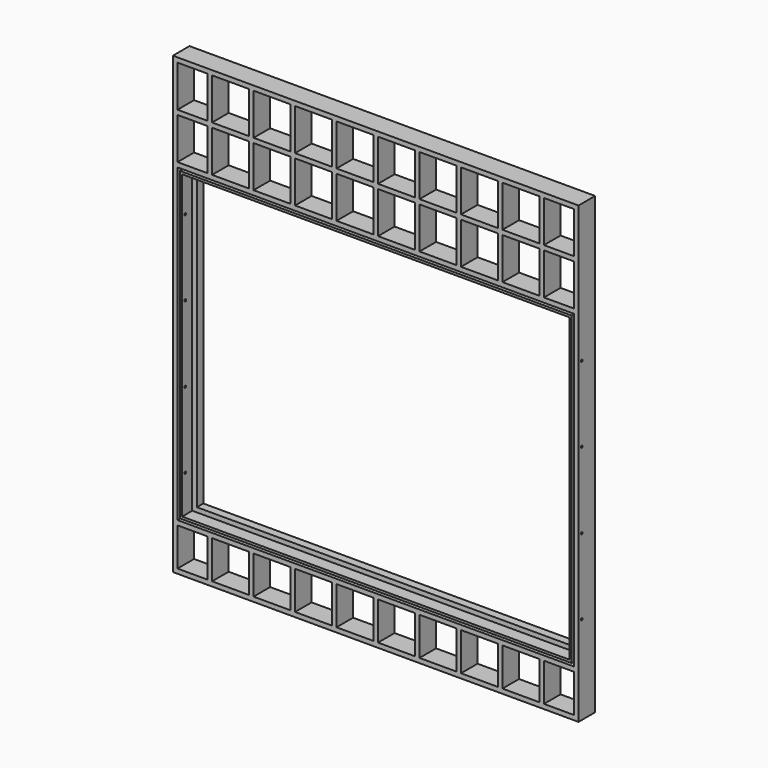
from build123d import *

# Parameters (mm, degrees)
F0_W           = 6.3500062943
F0_H           = 57.1500028491
F0_H_2         = 6.35
F0_W_2         = 41.2749993086
F0_W_3         = 50.8
F0_W_4         = 6.3499943972
F0_W_5         = 6.35
F0_W_6         = 6.3500004351
F0_W_7         = 41.2749995649
F0_H_3         = 52.3875
F0_W_8         = 6.3499957323
F1_DEPTH       = 28.575
F5_W           = 546.1
F5_H           = 3.175
F6_DEPTH       = 12.7
F2_W           = 3.175
F2_H           = 427.83125
F7_DEPTH       = 12.7
F3_W           = 546.1
F3_H           = 3.175
F8_DEPTH       = 12.7
F4_W           = 3.175
F4_H           = 427.83125
F9_DEPTH       = 12.7
F10_W          = 527.05
F10_H          = 408.78125
F10_W_2        = 520.7
F10_H_2        = 402.43125
F11_DEPTH      = 7.9375
F12_W          = 6.35
F12_H          = 6.35
F13_DEPTH      = 25.4
F14_W          = 3.175
F14_H          = 3.175
F15_DEPTH      = 3.175
F14_W_2        = 533.4
F14_H_2        = 415.13125
F16_DEPTH      = 17.4625
F17_DEPTH      = 3.175
F18_R          = 1.5875
F19_DEPTH      = 12.701
F19_DEPTH_BACK = 762
F20_DEPTH      = 25.4


with BuildPart() as f1:
    # F0 (on Front) → F1 (new body)
    with BuildSketch(Plane.XZ):
        Polygon((-279.4, 313.134375), (-279.4, -313.134375), (279.4, -313.134375), (279.4, 313.134375), (231.7750004351, 313.134375), align=None)
        Polygon((225.4250004351, 306.784375), (231.7750004351, 306.784375), (273.05, 306.784375), (273.05, 249.6343721509), (273.05, 243.2843721509), (273.05, 186.1343693018), (273.05, 179.784375), (273.05, -248.046875), (273.05, -254.396875), (273.05, -306.784375), (231.7749950409, -306.784375), (225.4249950409, -306.784375), (174.6249950409, -306.784375), (168.2749950409, -306.784375), (117.4749950409, -306.784375), (111.1249950409, -306.784375), (60.3249950409, -306.784375), (53.9749950409, -306.784375), (3.1749950409, -306.784375), (-3.1750049591, -306.784375), (-53.9750049591, -306.784375), (-60.3250049591, -306.784375), (-111.1250049591, -306.784375), (-117.4750049591, -306.784375), (-168.2750049591, -306.784375), (-174.6250049591, -306.784375), (-225.4250049591, -306.784375), (-231.7750006914, -306.784375), (-273.05, -306.784375), (-273.05, -254.396875), (-273.05, -248.046875), (-273.05, 179.784375), (-273.05, 186.1343693018), (-273.05, 243.2843721509), (-273.05, 249.6343721509), (-273.05, 306.784375), (-231.7750006914, 306.784375), (-225.4249943972, 306.784375), (-174.6249943972, 306.784375), (-168.275, 306.784375), (-117.475, 306.784375), (-111.125, 306.784375), (-60.325, 306.784375), (-53.975, 306.784375), (-3.175, 306.784375), (3.175, 306.784375), (53.975, 306.784375), (60.3250004351, 306.784375), (111.1250004351, 306.784375), (117.4750004351, 306.784375), (168.2750004351, 306.784375), (174.6250004351, 306.784375), align=None, mode=Mode.SUBTRACT)
        with Locations((-228.5999975443, 278.2093735754)):
            Rectangle(F0_W, F0_H)
        with Locations((-228.5999975443, 246.4593721509)):
            Rectangle(F0_W, F0_H_2)
        with Locations((-252.4125003457, 246.4593721509)):
            Rectangle(F0_W_2, F0_H_2)
        with Locations((-228.5999975443, 214.7093707263)):
            Rectangle(F0_W, F0_H)
        with Locations((-200.0249943972, 246.4593721509)):
            Rectangle(F0_W_3, F0_H_2)
        with Locations((-171.4499971986, 246.4593721509)):
            Rectangle(F0_W_4, F0_H_2)
        with Locations((-171.4499971986, 278.2093735754)):
            Rectangle(F0_W_4, F0_H)
        with Locations((-171.4499971986, 214.7093707263)):
            Rectangle(F0_W_4, F0_H)
        with Locations((-142.875, 246.4593721509)):
            Rectangle(F0_W_3, F0_H_2)
        with Locations((-114.3, 214.7093707263)):
            Rectangle(F0_W_5, F0_H)
        with Locations((-114.3, 246.4593721509)):
            Rectangle(F0_W_5, F0_H_2)
        with Locations((-114.3, 278.2093735754)):
            Rectangle(F0_W_5, F0_H)
        with Locations((-85.725, 246.4593721509)):
            Rectangle(F0_W_3, F0_H_2)
        with Locations((-57.15, 246.4593721509)):
            Rectangle(F0_W_5, F0_H_2)
        with Locations((-57.15, 278.2093735754)):
            Rectangle(F0_W_5, F0_H)
        with Locations((-57.15, 214.7093707263)):
            Rectangle(F0_W_5, F0_H)
        Polygon((273.05, 186.1343693018), (231.7750004351, 186.1343693018), (225.4250004351, 186.1343693018), (174.6250004351, 186.1343693018), (168.2750004351, 186.1343693018), (117.4750004351, 186.1343693018), (111.1250004351, 186.1343693018), (60.3250004351, 186.1343693018), (53.975, 186.1343693018), (3.175, 186.1343693018), (-3.175, 186.1343693018), (-53.975, 186.1343693018), (-60.325, 186.1343693018), (-111.125, 186.1343693018), (-117.475, 186.1343693018), (-168.275, 186.1343693018), (-174.6249943972, 186.1343693018), (-225.4249943972, 186.1343693018), (-231.7750006914, 186.1343693018), (-273.05, 186.1343693018), (-273.05, 179.784375), (273.05, 179.784375), align=None)
        with Locations((0, 214.7093707263)):
            Rectangle(F0_W_5, F0_H)
        with Locations((0, 246.4593721509)):
            Rectangle(F0_W_5, F0_H_2)
        with Locations((-28.575, 246.4593721509)):
            Rectangle(F0_W_3, F0_H_2)
        with Locations((0, 278.2093735754)):
            Rectangle(F0_W_5, F0_H)
        with Locations((28.575, 246.4593721509)):
            Rectangle(F0_W_3, F0_H_2)
        with Locations((57.1500002176, 246.4593721509)):
            Rectangle(F0_W_6, F0_H_2)
        with Locations((57.1500002176, 278.2093735754)):
            Rectangle(F0_W_6, F0_H)
        with Locations((57.1500002176, 214.7093707263)):
            Rectangle(F0_W_6, F0_H)
        with Locations((85.7250004351, 246.4593721509)):
            Rectangle(F0_W_3, F0_H_2)
        with Locations((114.3000004351, 246.4593721509)):
            Rectangle(F0_W_5, F0_H_2)
        with Locations((114.3000004351, 214.7093707263)):
            Rectangle(F0_W_5, F0_H)
        with Locations((114.3000004351, 278.2093735754)):
            Rectangle(F0_W_5, F0_H)
        with Locations((142.8750004351, 246.4593721509)):
            Rectangle(F0_W_3, F0_H_2)
        with Locations((171.4500004351, 278.2093735754)):
            Rectangle(F0_W_5, F0_H)
        with Locations((171.4500004351, 246.4593721509)):
            Rectangle(F0_W_5, F0_H_2)
        with Locations((171.4500004351, 214.7093707263)):
            Rectangle(F0_W_5, F0_H)
        with Locations((200.0250004351, 246.4593721509)):
            Rectangle(F0_W_3, F0_H_2)
        with Locations((228.6000004351, 214.7093707263)):
            Rectangle(F0_W_5, F0_H)
        with Locations((228.6000004351, 246.4593721509)):
            Rectangle(F0_W_5, F0_H_2)
        with Locations((228.6000004351, 278.2093735754)):
            Rectangle(F0_W_5, F0_H)
        with Locations((252.4125002176, 246.4593721509)):
            Rectangle(F0_W_7, F0_H_2)
        Polygon((273.05, -254.396875), (273.05, -248.046875), (-231.7750006914, -248.046875), (-231.7750006914, -254.396875), (-225.4250049591, -254.396875), (-174.6250049591, -254.396875), (-168.2750049591, -254.396875), (-117.4750049591, -254.396875), (-111.1250049591, -254.396875), (-60.3250049591, -254.396875), (-53.9750049591, -254.396875), (-3.1750049591, -254.396875), (3.1749950409, -254.396875), (53.9749950409, -254.396875), (60.3249950409, -254.396875), (111.1249950409, -254.396875), (117.4749950409, -254.396875), (168.2749950409, -254.396875), (174.6249950409, -254.396875), (225.4249950409, -254.396875), (231.7749950409, -254.396875), align=None)
        with Locations((-57.1500049591, -280.590625)):
            Rectangle(F0_W_5, F0_H_3)
        with Locations((-114.3000049591, -280.590625)):
            Rectangle(F0_W_5, F0_H_3)
        with Locations((-171.4500049591, -280.590625)):
            Rectangle(F0_W_5, F0_H_3)
        with Locations((-228.6000028253, -280.590625)):
            Rectangle(F0_W_8, F0_H_3)
        with Locations((-4.9591e-06, -280.590625)):
            Rectangle(F0_W_5, F0_H_3)
        with Locations((57.1499950409, -280.590625)):
            Rectangle(F0_W_5, F0_H_3)
        with Locations((171.4499950409, -280.590625)):
            Rectangle(F0_W_5, F0_H_3)
        with Locations((-252.4125003457, -251.221875)):
            Rectangle(F0_W_2, F0_H_2)
        with Locations((114.2999950409, -280.590625)):
            Rectangle(F0_W_5, F0_H_3)
        with Locations((228.5999950409, -280.590625)):
            Rectangle(F0_W_5, F0_H_3)
    extrude(amount=F1_DEPTH)

    # F5 (on face) → F6 (join)
    with BuildSketch(Plane(origin=(0, 0, 179.784375), x_dir=(1, 0, 0), z_dir=(0, 0, -1))):
        with Locations((0, 9.525)):
            Rectangle(F5_W, F5_H)
    extrude(amount=F6_DEPTH)

    # F2 (on face) → F7 (join)
    with BuildSketch(Plane.YZ.offset(-273.05)):
        with Locations((-9.525, -34.13125)):
            Rectangle(F2_W, F2_H)
    extrude(amount=F7_DEPTH)

    # F3 (on face) → F8 (join)
    with BuildSketch(Plane.XY.offset(-248.046875)):
        with Locations((0, -9.525)):
            Rectangle(F3_W, F3_H)
    extrude(amount=F8_DEPTH)

    # F4 (on face) → F9 (join)
    with BuildSketch(Plane(origin=(273.05, 0, 0), x_dir=(0, -1, 0), z_dir=(-1, 0, 0))):
        with Locations((9.525, -34.13125)):
            Rectangle(F4_W, F4_H)
    extrude(amount=F9_DEPTH)

    # F10 (on face) → F11 (join)
    with BuildSketch(Plane(origin=(0, -7.9375, 0), x_dir=(-1, 0, 0), z_dir=(0, 1, 0))):
        with Locations((0, -34.13125)):
            Rectangle(F10_W, F10_H)
        with Locations((0, -34.13125)):
            Rectangle(F10_W_2, F10_H_2, mode=Mode.SUBTRACT)
    extrude(amount=F11_DEPTH)

    # F12 (on face) → F13 (cut)
    with BuildSketch(Plane.XZ.offset(11.1125)):
        with Locations((-269.875, -244.871875)):
            Rectangle(F12_W, F12_H)
        with Locations((269.875, -244.871875)):
            Rectangle(F12_W, F12_H)
        with Locations((-269.875, 176.609375)):
            Rectangle(F12_W, F12_H)
        with Locations((269.875, 176.609375)):
            Rectangle(F12_W, F12_H)
    extrude(amount=-F13_DEPTH, mode=Mode.SUBTRACT)

    # F14 (on face) → F15 (join)
    with BuildSketch(Plane.XZ.offset(11.1125)):
        with Locations((-271.4625, 175.021875)):
            Rectangle(F14_W, F14_H)
        with Locations((-268.2875, 178.196875)):
            Rectangle(F14_W, F14_H)
        with Locations((271.4625, 175.021875)):
            Rectangle(F14_W, F14_H)
        with Locations((268.2875, -246.459375)):
            Rectangle(F14_W, F14_H)
        with Locations((271.4625, -243.284375)):
            Rectangle(F14_W, F14_H)
        with Locations((-271.4625, -243.284375)):
            Rectangle(F14_W, F14_H)
        with Locations((-268.2875, -246.459375)):
            Rectangle(F14_W, F14_H)
        with Locations((-268.2875, 175.021875)):
            Rectangle(F14_W, F14_H)
        with Locations((-268.2875, -243.284375)):
            Rectangle(F14_W, F14_H)
        with Locations((268.2875, -243.284375)):
            Rectangle(F14_W, F14_H)
        with Locations((268.2875, 175.021875)):
            Rectangle(F14_W, F14_H)
    extrude(amount=-F15_DEPTH)

    # F14 (on face) → F16 (join)
    with BuildSketch(Plane.XZ.offset(11.1125)):
        with Locations((-268.2875, 175.021875)):
            Rectangle(F14_W, F14_H)
        with Locations((0, 175.021875)):
            Rectangle(F14_W_2, F14_H)
        with Locations((-268.2875, -34.13125)):
            Rectangle(F14_W, F14_H_2)
        with Locations((268.2875, 175.021875)):
            Rectangle(F14_W, F14_H)
        with Locations((268.2875, -34.13125)):
            Rectangle(F14_W, F14_H_2)
        with Locations((268.2875, -243.284375)):
            Rectangle(F14_W, F14_H)
        with Locations((0, -243.284375)):
            Rectangle(F14_W_2, F14_H)
        with Locations((-268.2875, -243.284375)):
            Rectangle(F14_W, F14_H)
    extrude(amount=F16_DEPTH)

    # F14 (on face) → F17 (join)
    with BuildSketch(Plane.XZ.offset(11.1125)):
        with Locations((268.2875, 178.196875)):
            Rectangle(F14_W, F14_H)
    extrude(amount=-F17_DEPTH)

    # F18 (on face) → F19 (cut, two sides)
    with BuildSketch(Plane.YZ.offset(-266.7)) as f19_sk:
        with Locations((-23.01875, 122.634375)):
            Circle(F18_R)
        with Locations((-23.01875, -190.896875)):
            Circle(F18_R)
        with Locations((-23.01875, -86.502875)):
            Circle(F18_R)
        with Locations((-23.01875, 18.240375)):
            Circle(F18_R)
    extrude(amount=-F19_DEPTH, mode=Mode.SUBTRACT)
    extrude(f19_sk.sketch, amount=F19_DEPTH_BACK, mode=Mode.SUBTRACT)

    # F14 (on face) → F20 (cut)
    with BuildSketch(Plane.XZ.offset(11.1125)):
        with Locations((-268.2875, 178.196875)):
            Rectangle(F14_W, F14_H)
        with Locations((-271.4625, 175.021875)):
            Rectangle(F14_W, F14_H)
        with Locations((268.2875, 178.196875)):
            Rectangle(F14_W, F14_H)
        with Locations((271.4625, 175.021875)):
            Rectangle(F14_W, F14_H)
        with Locations((-271.4625, -243.284375)):
            Rectangle(F14_W, F14_H)
        with Locations((-268.2875, -246.459375)):
            Rectangle(F14_W, F14_H)
        with Locations((268.2875, -246.459375)):
            Rectangle(F14_W, F14_H)
        with Locations((271.4625, -243.284375)):
            Rectangle(F14_W, F14_H)
    extrude(amount=-F20_DEPTH, mode=Mode.SUBTRACT)


solid = f1.part
